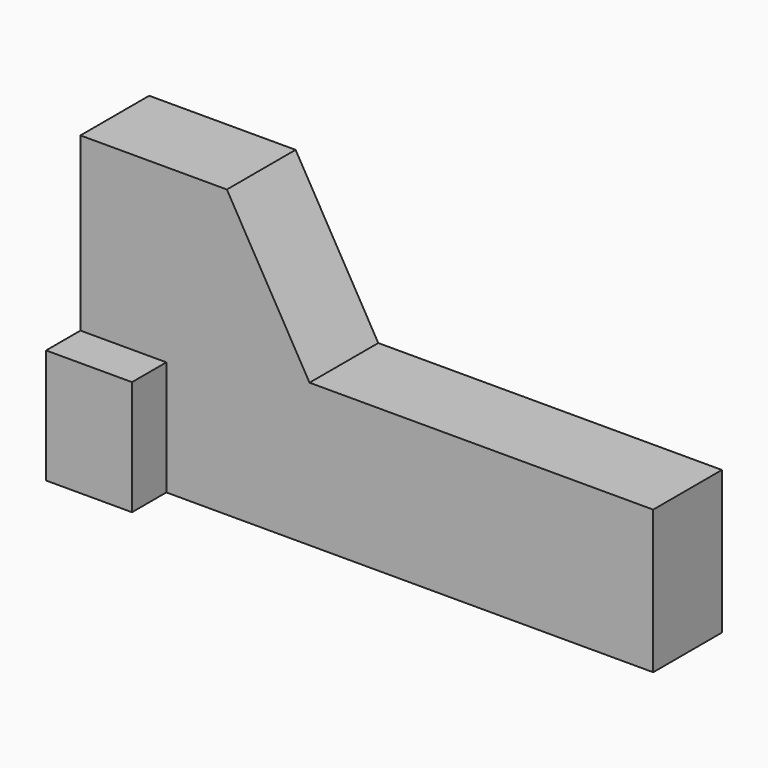
from build123d import *

# Parameters (mm, degrees)
F1_DEPTH = 19.05
F2_W     = 19.05
F2_H     = 25.4
F3_DEPTH = 9.525
F4_W     = 19.05
F4_H     = 25.4
F5_DEPTH = 9.525


with BuildPart() as f1:
    # F0 (on Front) → F1 (new body)
    with BuildSketch(Plane.XZ):
        Polygon((-12.7, 0), (-63.5, 0), (-63.5, -31.75), (63.5, -31.75), (63.5, 0), align=None)
        Polygon((-31.030871, 31.75), (-63.5, 31.75), (-63.5, 0), (-12.7, 0), align=None)
    extrude(amount=F1_DEPTH)

    # F2 (on face) → F3 (join)
    with BuildSketch(Plane.XZ.offset(19.05)):
        with Locations((-53.975, -19.05)):
            Rectangle(F2_W, F2_H)
    extrude(amount=F3_DEPTH)

    # F4 (on face) → F5 (join)
    with BuildSketch(Plane(origin=(0, 0, 0), x_dir=(-1, 0, 0), z_dir=(0, 1, 0))):
        with Locations((53.975, -19.05)):
            Rectangle(F4_W, F4_H)
    extrude(amount=F5_DEPTH)


solid = f1.part
